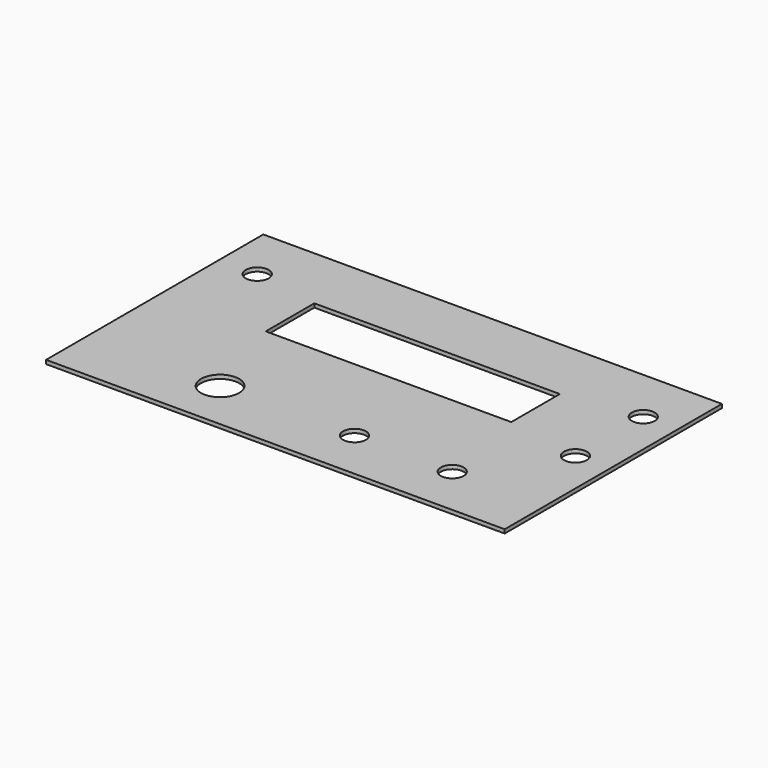
from build123d import *

# Parameters (mm, degrees)
F0_W     = 120.1
F0_H     = 71.1
F0_R     = 5
F0_R_2   = 3
F0_W_2   = 64.3
F0_H_2   = 15.9
F1_DEPTH = 1


with BuildPart() as f1:
    # F0 (on Top) → F1 (new body)
    with BuildSketch(Plane.XY):
        with Locations((60.05, 35.55)):
            Rectangle(F0_W, F0_H)
        with Locations((35, 13.2)):
            Circle(F0_R, mode=Mode.SUBTRACT)
        with Locations((70.2, 13.2)):
            Circle(F0_R_2, mode=Mode.SUBTRACT)
        with Locations((95.8, 13.2)):
            Circle(F0_R_2, mode=Mode.SUBTRACT)
        with Locations((111.1, 34.4)):
            Circle(F0_R_2, mode=Mode.SUBTRACT)
        with Locations((59.35, 45.85)):
            Rectangle(F0_W_2, F0_H_2, mode=Mode.SUBTRACT)
        with Locations((10, 56.6)):
            Circle(F0_R_2, mode=Mode.SUBTRACT)
        with Locations((111.1, 56.6)):
            Circle(F0_R_2, mode=Mode.SUBTRACT)
    extrude(amount=F1_DEPTH)


solid = f1.part
